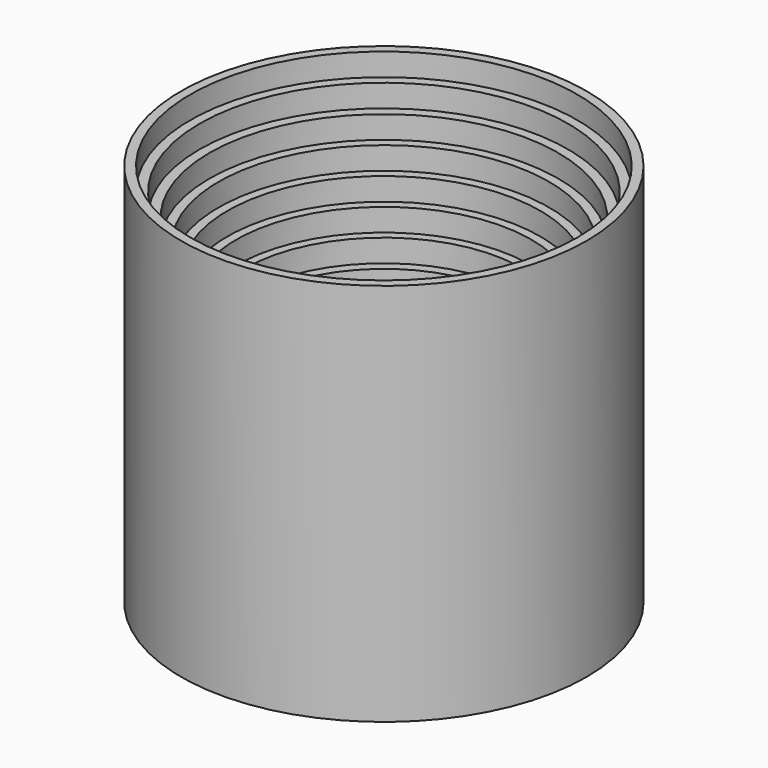
from build123d import *

# Parameters (mm, degrees)
F0_R      = 0.016454
F1_DEPTH  = 0.127
F0_R_2    = 0.030793
F2_DEPTH  = 0.254
F0_R_3    = 0.044201
F3_DEPTH  = 0.381
F0_R_4    = 0.058333
F4_DEPTH  = 0.508
F0_R_5    = 0.082289
F5_DEPTH  = 0.635
F0_R_6    = 0.110964
F6_DEPTH  = 0.762
F0_R_7    = 0.166573
F7_DEPTH  = 1.016
F0_R_8    = 0.219095
F8_DEPTH  = 1.27
F0_R_9    = 0.274683
F9_DEPTH  = 1.524
F0_R_10   = 0.337165
F10_DEPTH = 1.651
F0_R_11   = 0.408015
F11_DEPTH = 1.778
F0_R_12   = 0.485557
F12_DEPTH = 1.905
F0_R_13   = 0.578509
F13_DEPTH = 2.032
F0_R_14   = 0.667796
F14_DEPTH = 2.159
F0_R_15   = 0.802034
F15_DEPTH = 2.286
F0_R_16   = 1.032953
F16_DEPTH = 2.413
F0_R_17   = 1.576552
F17_DEPTH = 2.54
F0_R_18   = 2.397447
F18_DEPTH = 3.81
F0_R_19   = 3.303479
F19_DEPTH = 4.445
F0_R_20   = 4.231249
F20_DEPTH = 5.08
F0_R_21   = 5.202771
F21_DEPTH = 6.35
F0_R_22   = 6.121839
F22_DEPTH = 6.985
F0_R_23   = 7.050554
F23_DEPTH = 7.62
F0_R_24   = 7.944104
F24_DEPTH = 7.62
F0_R_25   = 8.922677
F25_DEPTH = 8.89
F0_R_26   = 9.808018
F26_DEPTH = 10.16
F0_R_27   = 10.844167
F27_DEPTH = 12.7
F0_R_28   = 11.761567
F28_DEPTH = 15.24
F0_R_29   = 12.626264
F29_DEPTH = 17.78
F0_R_30   = 13.574891
F30_DEPTH = 20.32
F0_R_31   = 14.58843
F31_DEPTH = 22.86
F0_R_32   = 15.648071
F32_DEPTH = 25.4
F0_R_33   = 16.614679
F33_DEPTH = 27.94
F0_R_34   = 17.602132
F34_DEPTH = 30.48
F0_R_35   = 18.606067
F35_DEPTH = 33.02
F0_R_36   = 19.616036
F36_DEPTH = 35.56
F0_R_37   = 20.71569
F37_DEPTH = 38.1
F0_R_38   = 21.775007
F38_DEPTH = 40.64
F0_R_39   = 22.809828
F39_DEPTH = 43.18


with BuildPart() as f1:
    # F0 (on Top) → F1 (new body)
    with BuildSketch(Plane.XY):
        Circle(F0_R)
    extrude(amount=F1_DEPTH)

    # F0 (on Top) → F2 (join)
    with BuildSketch(Plane.XY):
        Circle(F0_R_2)
        Circle(F0_R, mode=Mode.SUBTRACT)
    extrude(amount=F2_DEPTH)

    # F0 (on Top) → F3 (join)
    with BuildSketch(Plane.XY):
        Circle(F0_R_3)
        Circle(F0_R_2, mode=Mode.SUBTRACT)
    extrude(amount=F3_DEPTH)

    # F0 (on Top) → F4 (join)
    with BuildSketch(Plane.XY):
        Circle(F0_R_4)
        Circle(F0_R_3, mode=Mode.SUBTRACT)
    extrude(amount=F4_DEPTH)

    # F0 (on Top) → F5 (join)
    with BuildSketch(Plane.XY):
        Circle(F0_R_5)
        Circle(F0_R_4, mode=Mode.SUBTRACT)
    extrude(amount=F5_DEPTH)

    # F0 (on Top) → F6 (join)
    with BuildSketch(Plane.XY):
        Circle(F0_R_6)
        Circle(F0_R_5, mode=Mode.SUBTRACT)
    extrude(amount=F6_DEPTH)

    # F0 (on Top) → F7 (join)
    with BuildSketch(Plane.XY):
        Circle(F0_R_7)
        Circle(F0_R_6, mode=Mode.SUBTRACT)
    extrude(amount=F7_DEPTH)

    # F0 (on Top) → F8 (join)
    with BuildSketch(Plane.XY):
        Circle(F0_R_8)
        Circle(F0_R_7, mode=Mode.SUBTRACT)
    extrude(amount=F8_DEPTH)

    # F0 (on Top) → F9 (join)
    with BuildSketch(Plane.XY):
        Circle(F0_R_9)
        Circle(F0_R_8, mode=Mode.SUBTRACT)
    extrude(amount=F9_DEPTH)

    # F0 (on Top) → F10 (join)
    with BuildSketch(Plane.XY):
        Circle(F0_R_10)
        Circle(F0_R_9, mode=Mode.SUBTRACT)
    extrude(amount=F10_DEPTH)

    # F0 (on Top) → F11 (join)
    with BuildSketch(Plane.XY):
        Circle(F0_R_11)
        Circle(F0_R_10, mode=Mode.SUBTRACT)
    extrude(amount=F11_DEPTH)

    # F0 (on Top) → F12 (join)
    with BuildSketch(Plane.XY):
        Circle(F0_R_12)
        Circle(F0_R_11, mode=Mode.SUBTRACT)
    extrude(amount=F12_DEPTH)

    # F0 (on Top) → F13 (join)
    with BuildSketch(Plane.XY):
        Circle(F0_R_13)
        Circle(F0_R_12, mode=Mode.SUBTRACT)
    extrude(amount=F13_DEPTH)

    # F0 (on Top) → F14 (join)
    with BuildSketch(Plane.XY):
        Circle(F0_R_14)
        Circle(F0_R_13, mode=Mode.SUBTRACT)
    extrude(amount=F14_DEPTH)

    # F0 (on Top) → F15 (join)
    with BuildSketch(Plane.XY):
        Circle(F0_R_15)
        Circle(F0_R_14, mode=Mode.SUBTRACT)
    extrude(amount=F15_DEPTH)

    # F0 (on Top) → F16 (join)
    with BuildSketch(Plane.XY):
        Circle(F0_R_16)
        Circle(F0_R_15, mode=Mode.SUBTRACT)
    extrude(amount=F16_DEPTH)

    # F0 (on Top) → F17 (join)
    with BuildSketch(Plane.XY):
        Circle(F0_R_17)
        Circle(F0_R_16, mode=Mode.SUBTRACT)
    extrude(amount=F17_DEPTH)

    # F0 (on Top) → F18 (join)
    with BuildSketch(Plane.XY):
        Circle(F0_R_18)
        Circle(F0_R_17, mode=Mode.SUBTRACT)
    extrude(amount=F18_DEPTH)

    # F0 (on Top) → F19 (join)
    with BuildSketch(Plane.XY):
        Circle(F0_R_19)
        Circle(F0_R_18, mode=Mode.SUBTRACT)
    extrude(amount=F19_DEPTH)

    # F0 (on Top) → F20 (join)
    with BuildSketch(Plane.XY):
        Circle(F0_R_20)
        Circle(F0_R_19, mode=Mode.SUBTRACT)
    extrude(amount=F20_DEPTH)

    # F0 (on Top) → F21 (join)
    with BuildSketch(Plane.XY):
        Circle(F0_R_21)
        Circle(F0_R_20, mode=Mode.SUBTRACT)
    extrude(amount=F21_DEPTH)

    # F0 (on Top) → F22 (join)
    with BuildSketch(Plane.XY):
        Circle(F0_R_22)
        Circle(F0_R_21, mode=Mode.SUBTRACT)
    extrude(amount=F22_DEPTH)

    # F0 (on Top) → F23 (join)
    with BuildSketch(Plane.XY):
        Circle(F0_R_23)
        Circle(F0_R_22, mode=Mode.SUBTRACT)
    extrude(amount=F23_DEPTH)

    # F0 (on Top) → F24 (join)
    with BuildSketch(Plane.XY):
        Circle(F0_R_24)
        Circle(F0_R_23, mode=Mode.SUBTRACT)
    extrude(amount=F24_DEPTH)

    # F0 (on Top) → F25 (join)
    with BuildSketch(Plane.XY):
        Circle(F0_R_25)
        Circle(F0_R_24, mode=Mode.SUBTRACT)
    extrude(amount=F25_DEPTH)

    # F0 (on Top) → F26 (join)
    with BuildSketch(Plane.XY):
        Circle(F0_R_26)
        Circle(F0_R_25, mode=Mode.SUBTRACT)
    extrude(amount=F26_DEPTH)

    # F0 (on Top) → F27 (join)
    with BuildSketch(Plane.XY):
        Circle(F0_R_27)
        Circle(F0_R_26, mode=Mode.SUBTRACT)
    extrude(amount=F27_DEPTH)

    # F0 (on Top) → F28 (join)
    with BuildSketch(Plane.XY):
        Circle(F0_R_28)
        Circle(F0_R_27, mode=Mode.SUBTRACT)
    extrude(amount=F28_DEPTH)

    # F0 (on Top) → F29 (join)
    with BuildSketch(Plane.XY):
        Circle(F0_R_29)
        Circle(F0_R_28, mode=Mode.SUBTRACT)
    extrude(amount=F29_DEPTH)

    # F0 (on Top) → F30 (join)
    with BuildSketch(Plane.XY):
        Circle(F0_R_30)
        Circle(F0_R_29, mode=Mode.SUBTRACT)
    extrude(amount=F30_DEPTH)

    # F0 (on Top) → F31 (join)
    with BuildSketch(Plane.XY):
        Circle(F0_R_31)
        Circle(F0_R_30, mode=Mode.SUBTRACT)
    extrude(amount=F31_DEPTH)

    # F0 (on Top) → F32 (join)
    with BuildSketch(Plane.XY):
        Circle(F0_R_32)
        Circle(F0_R_31, mode=Mode.SUBTRACT)
    extrude(amount=F32_DEPTH)

    # F0 (on Top) → F33 (join)
    with BuildSketch(Plane.XY):
        Circle(F0_R_33)
        Circle(F0_R_32, mode=Mode.SUBTRACT)
    extrude(amount=F33_DEPTH)

    # F0 (on Top) → F34 (join)
    with BuildSketch(Plane.XY):
        Circle(F0_R_34)
        Circle(F0_R_33, mode=Mode.SUBTRACT)
    extrude(amount=F34_DEPTH)

    # F0 (on Top) → F35 (join)
    with BuildSketch(Plane.XY):
        Circle(F0_R_35)
        Circle(F0_R_34, mode=Mode.SUBTRACT)
    extrude(amount=F35_DEPTH)

    # F0 (on Top) → F36 (join)
    with BuildSketch(Plane.XY):
        Circle(F0_R_36)
        Circle(F0_R_35, mode=Mode.SUBTRACT)
    extrude(amount=F36_DEPTH)

    # F0 (on Top) → F37 (join)
    with BuildSketch(Plane.XY):
        Circle(F0_R_37)
        Circle(F0_R_36, mode=Mode.SUBTRACT)
    extrude(amount=F37_DEPTH)

    # F0 (on Top) → F38 (join)
    with BuildSketch(Plane.XY):
        Circle(F0_R_38)
        Circle(F0_R_37, mode=Mode.SUBTRACT)
    extrude(amount=F38_DEPTH)

    # F0 (on Top) → F39 (join)
    with BuildSketch(Plane.XY):
        Circle(F0_R_39)
        Circle(F0_R_38, mode=Mode.SUBTRACT)
    extrude(amount=F39_DEPTH)


solid = f1.part
